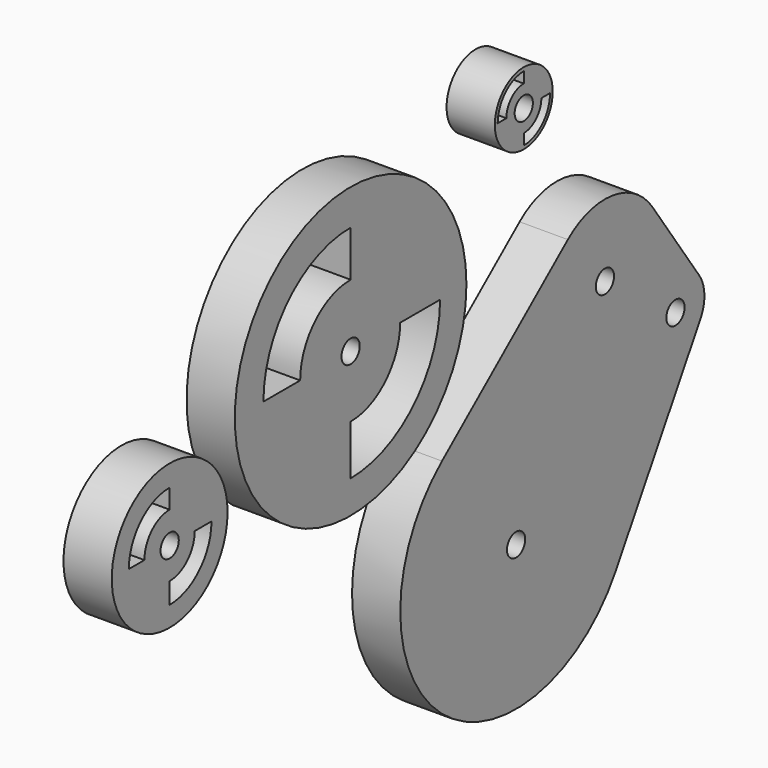
from build123d import *

# Parameters (mm, degrees)
F0_R     = 1.499997
F0_R_2   = 9.525
F0_R_3   = 19.05
F0_R_4   = 4.7625
F1_DEPTH = 6.35


with BuildPart() as f1:
    # F0 (on Right) → F1 (new body)
    with BuildSketch(Plane.YZ):
        with BuildLine():
            Line((-20.975642, 6.234786), (-7.0554, 29.742179))
            ThreePointArc((-7.0554, 29.742179), (-6.394042, 32.344319), (-7.245258, 34.890681))
            Line((-7.245258, 34.890681), (-14.943859, 45.944314))
            ThreePointArc((-14.943859, 45.944314), (-21.487185, 49.940161), (-28.855151, 47.820024))
            Line((-28.855151, 47.820024), (-49.557661, 30.580212))
            ThreePointArc((-49.557661, 30.580212), (-49.719906, 1.439088), (-20.975642, 6.234786))
        make_face()
        with Locations((-37.367273, 15.941327)):
            Circle(F0_R, mode=Mode.SUBTRACT)
        with Locations((-11.153307, 32.168815)):
            Circle(F0_R, mode=Mode.SUBTRACT)
        with Locations((-22.759957, 40.500581)):
            Circle(F0_R, mode=Mode.SUBTRACT)
        with Locations((-94.351119, 39.008833)):
            Circle(F0_R_2)
        with Locations((-94.351119, 39.008833)):
            Circle(F0_R, mode=Mode.SUBTRACT)
        with BuildLine():
            Line((-98.504625, 39.008833), (-101.063631, 39.008833))
            ThreePointArc((-101.063631, 39.008833), (-99.097582, 43.755296), (-94.351119, 45.721345))
            Line((-94.351119, 45.721345), (-94.351119, 43.162339))
            ThreePointArc((-94.351119, 43.162339), (-97.288091, 41.945805), (-98.504625, 39.008833))
        make_face(mode=Mode.SUBTRACT)
        with BuildLine():
            ThreePointArc((-87.473325, 39.008833), (-89.487784, 34.145498), (-94.351119, 32.131039))
            Line((-94.351119, 32.131039), (-94.351119, 34.886889))
            ThreePointArc((-94.351119, 34.886889), (-91.436465, 36.094179), (-90.229175, 39.008833))
            Line((-90.229175, 39.008833), (-87.473325, 39.008833))
        make_face(mode=Mode.SUBTRACT)
        with Locations((-64.585872, 49.403638)):
            Circle(F0_R_3)
        with BuildLine():
            Line((-64.585872, 34.689154), (-64.585872, 41.258119))
            ThreePointArc((-64.585872, 41.258119), (-58.826121, 43.643886), (-56.440353, 49.403638))
            Line((-56.440353, 49.403638), (-49.871389, 49.403638))
            ThreePointArc((-49.871389, 49.403638), (-54.181161, 38.998927), (-64.585872, 34.689154))
        make_face(mode=Mode.SUBTRACT)
        with Locations((-64.585872, 49.403638)):
            Circle(F0_R, mode=Mode.SUBTRACT)
        with BuildLine():
            ThreePointArc((-64.585872, 57.7012), (-70.453135, 55.2709), (-72.883435, 49.403638))
            Line((-72.883435, 49.403638), (-78.926884, 49.403638))
            ThreePointArc((-78.926884, 49.403638), (-74.726499, 59.544264), (-64.585872, 63.744649))
            Line((-64.585872, 63.744649), (-64.585872, 57.7012))
        make_face(mode=Mode.SUBTRACT)
        with Locations((-36.105146, 65.986276)):
            Circle(F0_R_4)
        with BuildLine():
            Line((-36.105146, 61.663408), (-36.105146, 63.09294))
            ThreePointArc((-36.105146, 63.09294), (-34.059248, 63.940378), (-33.211809, 65.986276))
            Line((-33.211809, 65.986276), (-31.782278, 65.986276))
            ThreePointArc((-31.782278, 65.986276), (-33.048417, 62.929547), (-36.105146, 61.663408))
        make_face(mode=Mode.SUBTRACT)
        with Locations((-36.105146, 65.986276)):
            Circle(F0_R, mode=Mode.SUBTRACT)
        with BuildLine():
            ThreePointArc((-36.105146, 68.845264), (-38.126756, 68.007886), (-38.964134, 65.986276))
            Line((-38.964134, 65.986276), (-40.393669, 65.986276))
            ThreePointArc((-40.393669, 65.986276), (-39.13759, 69.01872), (-36.105146, 70.274799))
            Line((-36.105146, 70.274799), (-36.105146, 68.845264))
        make_face(mode=Mode.SUBTRACT)
    extrude(amount=F1_DEPTH)


solid = f1.part
